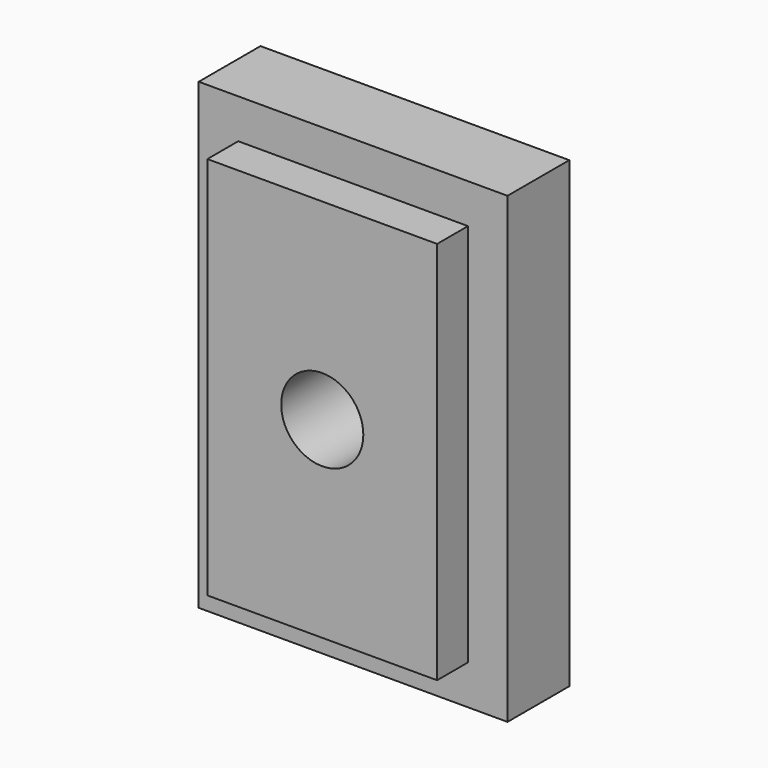
from build123d import *

# Parameters (mm, degrees)
F0_W     = 25.4
F0_H     = 38.1
F1_DEPTH = 6.35
F2_W     = 18.8976
F2_H     = 31.5976
F3_DEPTH = 3.175
F4_R     = 3.3782
F5_DEPTH = 25.4


with BuildPart() as f1:
    # F0 (on Front) → F1 (new body)
    with BuildSketch(Plane.XZ):
        with Locations((12.7, 19.05)):
            Rectangle(F0_W, F0_H)
    extrude(amount=-F1_DEPTH)

    # F2 (on face) → F3 (join)
    with BuildSketch(Plane.XZ):
        with Locations((12.7, 19.05)):
            Rectangle(F2_W, F2_H)
    extrude(amount=F3_DEPTH)

    # F4 (on face) → F5 (cut)
    with BuildSketch(Plane.XZ.offset(3.175)):
        with Locations((12.7, 19.05)):
            Circle(F4_R)
    extrude(amount=-F5_DEPTH, mode=Mode.SUBTRACT)


solid = f1.part
